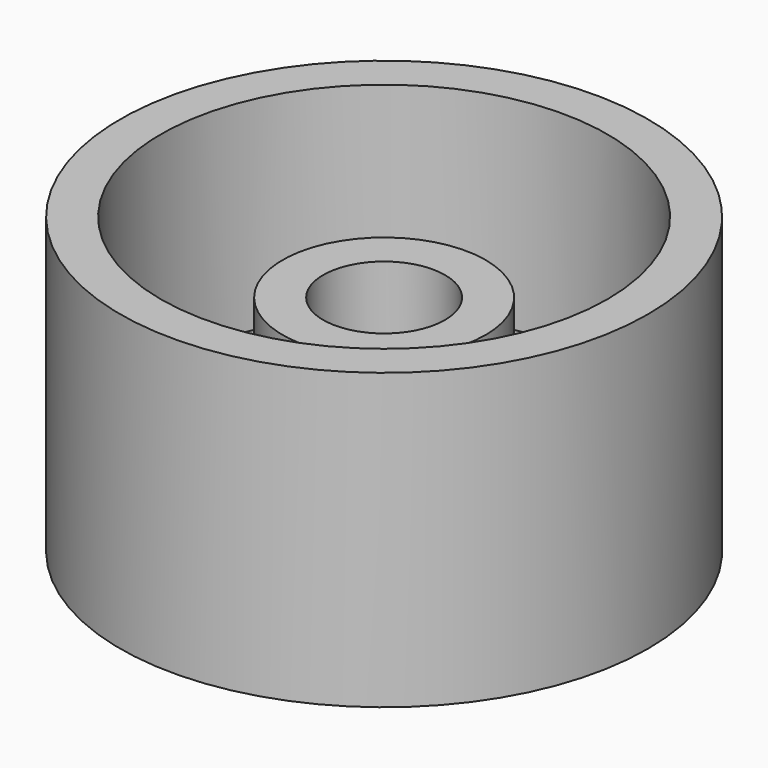
from build123d import *

# Parameters (mm, degrees)
CIRCLE070_R        = 12
EXTRUSION013_DEPTH = 4
CIRCLE066_R        = 11
EXTRUSION012_DEPTH = 14
CIRCLE_R           = 13
EXTRUSION_DEPTH    = 14.5
CIRCLE069_R        = 9
EXTRUDE072_DEPTH   = 2
CIRCLE067_R        = 3
EXTRUDE_DEPTH      = 11
CIRCLE068_R        = 5
EXTRUDE071_DEPTH   = 11


with BuildPart() as extrusion013:
    # Circle070 → Extrusion013 (new body)
    with BuildSketch(Plane(origin=(-85.118271, -1.008042, 9), x_dir=(1, 0, 0), z_dir=(0, 0, 1))):
        Circle(CIRCLE070_R)
    extrude(amount=EXTRUSION013_DEPTH)


with BuildPart() as extrusion013_1:
    # Extrusion013 placement: moved
    add(extrusion013.part.moved(Location((26.958331, 4.39901, 0.5))))


with BuildPart() as extrusion012:
    # Circle066 → Extrusion012 (new body)
    with BuildSketch(Plane(origin=(17.627983, 9.639136, 13.765504), x_dir=(1, 0, 0), z_dir=(0, 0, 1))):
        Circle(CIRCLE066_R)
    extrude(amount=-EXTRUSION012_DEPTH)


with BuildPart() as cut048:
    # Circle → Extrusion (new body)
    with BuildSketch(Plane(origin=(17.627983, 9.639136, -0.734496), x_dir=(1, 0, 0), z_dir=(0, 0, -1))):
        Circle(CIRCLE_R)
    extrude(amount=-EXTRUSION_DEPTH)

    # Cut: cut Extrusion012
    add(extrusion012.part, mode=Mode.SUBTRACT)


with BuildPart() as cut048_1:
    # Cut placement: moved
    add(cut048.part.moved(Location((-75.787923, -6.248169, 9.734496))))

    # Cut048: cut Extrusion013
    add(extrusion013_1.part, mode=Mode.SUBTRACT)


with BuildPart() as extrude072:
    # Circle069 → Extrude072 (new body)
    with BuildSketch(Plane(origin=(-58.15994, 3.390968, 9), x_dir=(1, 0, 0), z_dir=(0, 0, -1))):
        Circle(CIRCLE069_R)
    extrude(amount=-EXTRUDE072_DEPTH)


with BuildPart() as extrude_body:
    # Circle067 → Extrude (new body)
    with BuildSketch(Plane(origin=(-58.15994, 3.390968, 9), x_dir=(1, 0, 0), z_dir=(0, 0, -1))):
        Circle(CIRCLE067_R)
    extrude(amount=-EXTRUDE_DEPTH)


with BuildPart() as fusion001:
    # Circle068 → Extrude071 (new body)
    with BuildSketch(Plane(origin=(-58.15994, 3.390968, 9), x_dir=(1, 0, 0), z_dir=(0, 0, -1))):
        Circle(CIRCLE068_R)
    extrude(amount=-EXTRUDE071_DEPTH)

    # Cut047: cut Extrude body
    add(extrude_body.part, mode=Mode.SUBTRACT)

    # Fusion: union Extrude072
    add(extrude072.part)

    # Fusion001: union Cut048
    add(cut048_1.part)


solid = fusion001.part
